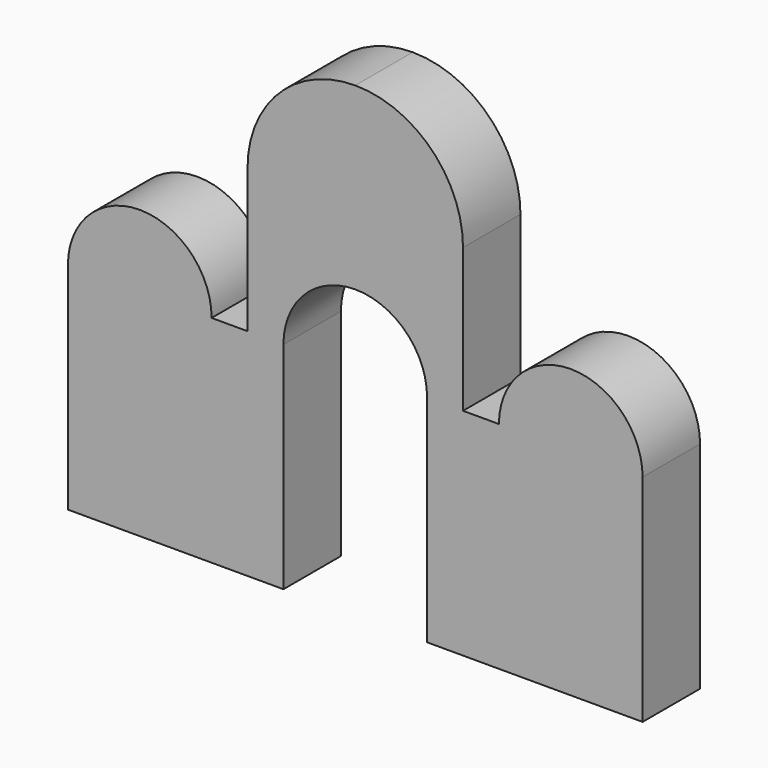
from build123d import *

# Parameters (mm, degrees)
F1_DEPTH = 25.4


with BuildPart() as f1:
    # F0 (on Front) → F1 (new body)
    with BuildSketch(Plane.XZ):
        with BuildLine():
            Line((-40.735625, 34.021717), (-40.735625, -42.178283))
            Line((-40.735625, -42.178283), (35.464375, -42.178283))
            Line((35.464375, -42.178283), (35.464375, 34.021717))
            ThreePointArc((35.464375, 34.021717), (42.903863, 51.982229), (60.864375, 59.421717))
            ThreePointArc((60.864375, 59.421717), (78.824888, 51.982229), (86.264375, 34.021717))
            Line((86.264375, 34.021717), (86.264375, -42.178283))
            Line((86.264375, -42.178283), (162.464375, -42.178283))
            Line((162.464375, -42.178283), (162.464375, 34.021717))
            ThreePointArc((162.464375, 34.021717), (137.064375, 59.421717), (111.664375, 34.021717))
            Line((111.664375, 34.021717), (98.964375, 34.021717))
            Line((98.964375, 34.021717), (98.964375, 84.821717))
            ThreePointArc((98.964375, 84.821717), (87.805144, 111.762485), (60.864375, 122.921717))
            ThreePointArc((60.864375, 122.921717), (33.923607, 111.762485), (22.764375, 84.821717))
            Line((22.764375, 84.821717), (22.764375, 34.021717))
            Line((22.764375, 34.021717), (10.064375, 34.021717))
            ThreePointArc((10.064375, 34.021717), (-15.335625, 59.421717), (-40.735625, 34.021717))
        make_face()
    extrude(amount=F1_DEPTH)


solid = f1.part
